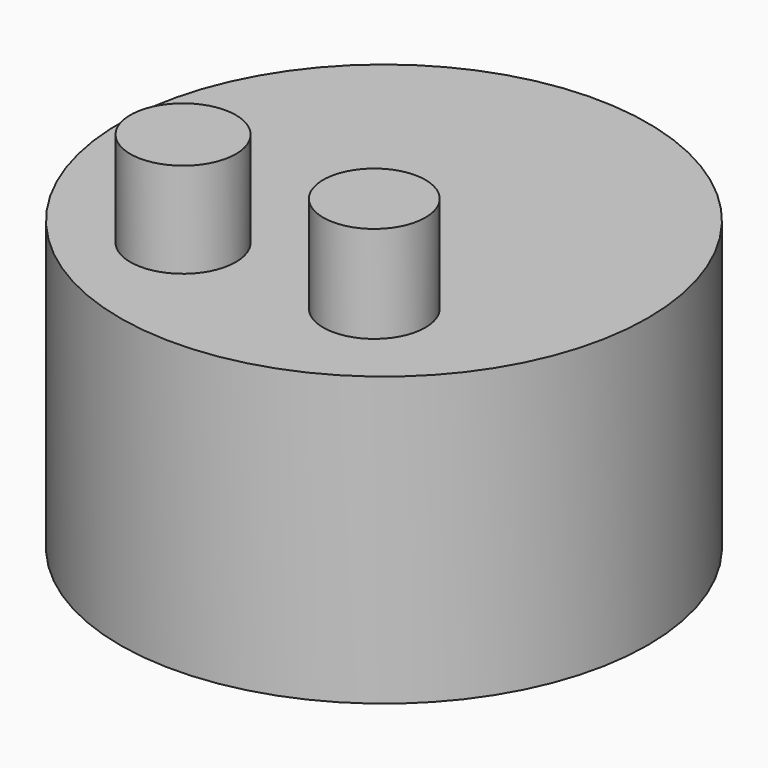
from build123d import *

# Parameters (mm, degrees)
F0_R     = 79.631708
F6_DEPTH = 86.868
F2_R     = 15.927649
F7_DEPTH = 115.57
F2_R_2   = 15.419675
F8_DEPTH = 116.078
F2_R_3   = 79.631708
F9_DEPTH = 46.736


with BuildPart() as f6:
    # F0 (on Top) → F6 (new body)
    with BuildSketch(Plane.XY):
        Circle(F0_R)
    extrude(amount=F6_DEPTH)

    # F2 (on face) → F7 (join)
    with BuildSketch(Plane.XY):
        with Locations((-29.928552, -38.350657)):
            Circle(F2_R)
    extrude(amount=F7_DEPTH)

    # F2 (on face) → F8 (join)
    with BuildSketch(Plane.XY):
        with Locations((26.319079, -36.545925)):
            Circle(F2_R_2)
    extrude(amount=F8_DEPTH)

    # F2 (on face) → F9 (join)
    with BuildSketch(Plane.XY):
        Circle(F2_R_3)
        with Locations((-29.928552, -38.350657)):
            Circle(F2_R, mode=Mode.SUBTRACT)
        with Locations((26.319079, -36.545925)):
            Circle(F2_R_2, mode=Mode.SUBTRACT)
    extrude(amount=F9_DEPTH)


solid = f6.part
